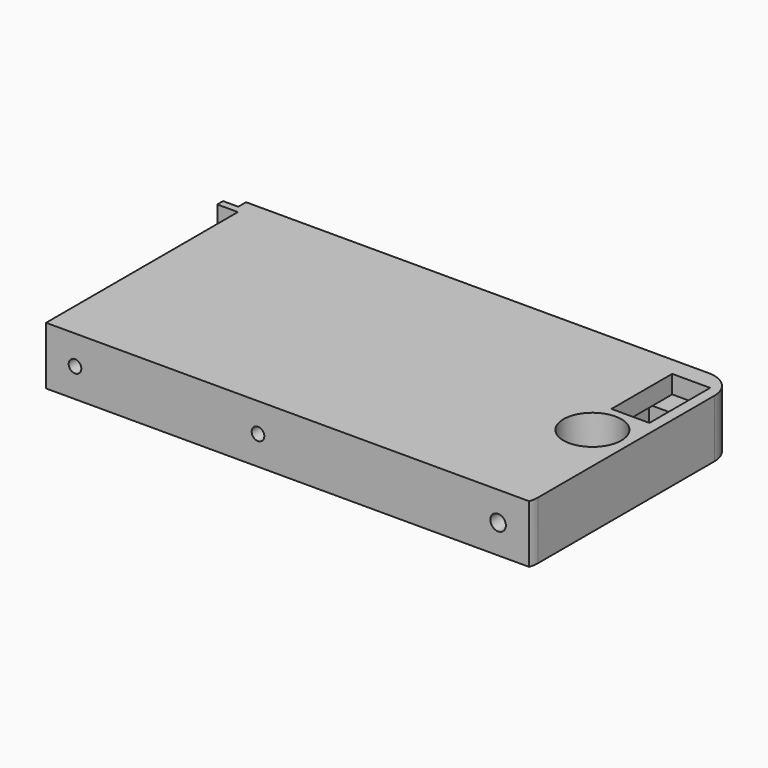
from build123d import *

# Parameters (mm, degrees)
SKETCH_R        = 2.25
PAD_DEPTH       = 16
POCKET_DEPTH    = 21
SKETCH002_R     = 1.75
POCKET001_DEPTH = 23
SKETCH003_R     = 1.75
SKETCH003_R_2   = 2.15
POCKET002_DEPTH = 46
SKETCH005_R     = 8
POCKET004_DEPTH = 5
POCKET005_DEPTH = 4.4
SKETCH007_W     = 10.5
SKETCH007_H     = 21
POCKET006_DEPTH = 5
POCKET007_DEPTH = 18


with BuildPart() as part:
    # Sketch → Pad (new body)
    with BuildSketch(Plane.XY):
        with BuildLine():
            Line((0, 36), (75.6, 36))
            Line((75.6, 36), (133.571068, 36))
            ThreePointArc((133.571068, 36), (133.891989, 37.231735), (134, 38.5))
            Line((134, 38.5), (134, 99.5))
            ThreePointArc((134, 99.5), (131.803301, 104.803301), (126.5, 107))
            Line((126.5, 107), (-1.5, 107))
            Line((-1.5, 107), (-1.5, 104.3))
            Line((-1.5, 104.3), (-5.7, 104.3))
            Line((-5.7, 104.3), (-5.7, 102.3))
            Line((-5.7, 102.3), (0, 102.3))
            Line((0, 102.3), (0, 36))
        make_face()
        with Locations((123.4, 70.6)):
            Circle(SKETCH_R, mode=Mode.SUBTRACT)
    extrude(amount=PAD_DEPTH)

    # Sketch001 (on DatumPlane) → Pocket (cut)
    with BuildSketch(Plane.XY.offset(11)):
        with BuildLine():
            Line((13.289069, 102.5), (4, 102.5))
            Line((4, 102.5), (4, 41.6))
            Line((4, 41.6), (80, 41.6))
            Line((80, 41.6), (122, 41.6))
            Line((122, 41.6), (122, 58))
            Line((122, 58), (109.7, 58))
            Line((109.7, 58), (109.7, 102.5))
            Line((109.7, 102.5), (98.331885, 102.5))
            add(Edge.make_bspline(
                [(13.289069, 102.5), (27.487875, 102.5), (63.575842, 75.600151), (81.110251, 102.5), (98.331885, 102.5)],
                knots=[0, 0, 0, 0, 0.5, 1, 1, 1, 1], degree=3))
        make_face()
        Polygon((128.6, 101.8), (131, 101.8), (131, 79.9), (120.7, 79.9), (120.7, 93.6), (120.7, 93.9), (124.3, 93.9), (128.6, 93.9), align=None)
    extrude(amount=-POCKET_DEPTH, mode=Mode.SUBTRACT)

    # Sketch002 → Pocket001 (cut)
    with BuildSketch(Plane.YZ):
        with Locations((12, 8)):
            Circle(SKETCH002_R)
        with Locations((60, 8)):
            Circle(SKETCH002_R)
        with Locations((90, 8)):
            Circle(SKETCH002_R)
    extrude(amount=POCKET001_DEPTH, mode=Mode.SUBTRACT)

    # Sketch003 → Pocket002 (cut)
    with BuildSketch(Plane.XZ):
        with Locations((58.6, 8)):
            Circle(SKETCH003_R)
        with Locations((8, 8)):
            Circle(SKETCH003_R)
        with Locations((125, 8)):
            Circle(SKETCH003_R_2)
    extrude(amount=-POCKET002_DEPTH, mode=Mode.SUBTRACT)

    # Sketch005 (on DatumPlane) → Pocket004 (cut, symmetric)
    with BuildSketch(Plane.XY.offset(11)):
        with Locations((123.4, 70.6)):
            Circle(SKETCH005_R)
    extrude(amount=POCKET004_DEPTH, both=True, mode=Mode.SUBTRACT)

    # Sketch006 → Pocket005 (cut)
    with BuildSketch(Plane.XY):
        Polygon((116.7, 102.3), (124.3, 102.3), (124.3, 93.9), (124.3, 93.6), (120.7, 93.6), (116.7, 93.6), align=None)
    extrude(amount=POCKET005_DEPTH, mode=Mode.SUBTRACT)

    # Sketch007 (on DatumPlane) → Pocket006 (cut)
    with BuildSketch(Plane.XY.offset(11)):
        with Locations((125.75, 91.3)):
            Rectangle(SKETCH007_W, SKETCH007_H)
    extrude(amount=POCKET006_DEPTH, mode=Mode.SUBTRACT)

    # Sketch008 (on DatumPlane) → Pocket007 (cut)
    with BuildSketch(Plane.XY.offset(11)):
        Polygon((127.328613, 102.8), (132, 102.8), (132, 79.494476), (119.5, 79.494476), (119.5, 94.960373), (127.328613, 94.960373), align=None)
    extrude(amount=-POCKET007_DEPTH, mode=Mode.SUBTRACT)


solid = part.part
